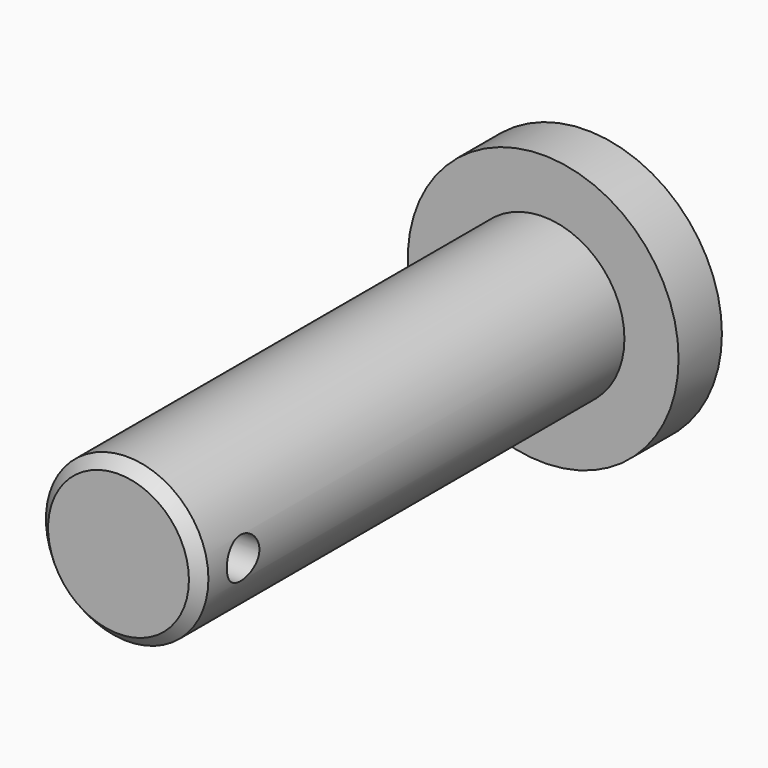
from build123d import *

# Parameters (mm, degrees)
F0_R     = 15.875
F1_DEPTH = 6.35
F2_R     = 9.525
F3_DEPTH = 62.23
F4_SIZE2 = 1.27
F4_SIZE  = 1.27
F5_R     = 2.3876
F6_DEPTH = 698.5


with BuildPart() as f1:
    # F0 (on Front) → F1 (new body)
    with BuildSketch(Plane.XZ):
        Circle(F0_R)
    extrude(amount=F1_DEPTH)

    # F2 (on face) → F3 (join)
    with BuildSketch(Plane.XZ.offset(6.35)):
        Circle(F2_R)
    extrude(amount=F3_DEPTH)

    # F4
    f4_edges = [f1.edges().sort_by_distance(p)[0] for p in [
        (-9.525, -68.58, 0),
    ]]
    chamfer(f4_edges, length=F4_SIZE, length2=F4_SIZE2)

    # F5 (on Right) → F6 (cut, symmetric)
    with BuildSketch(Plane.YZ):
        with Locations((-62.23, 0)):
            Circle(F5_R)
    extrude(amount=F6_DEPTH, both=True, mode=Mode.SUBTRACT)


solid = f1.part
